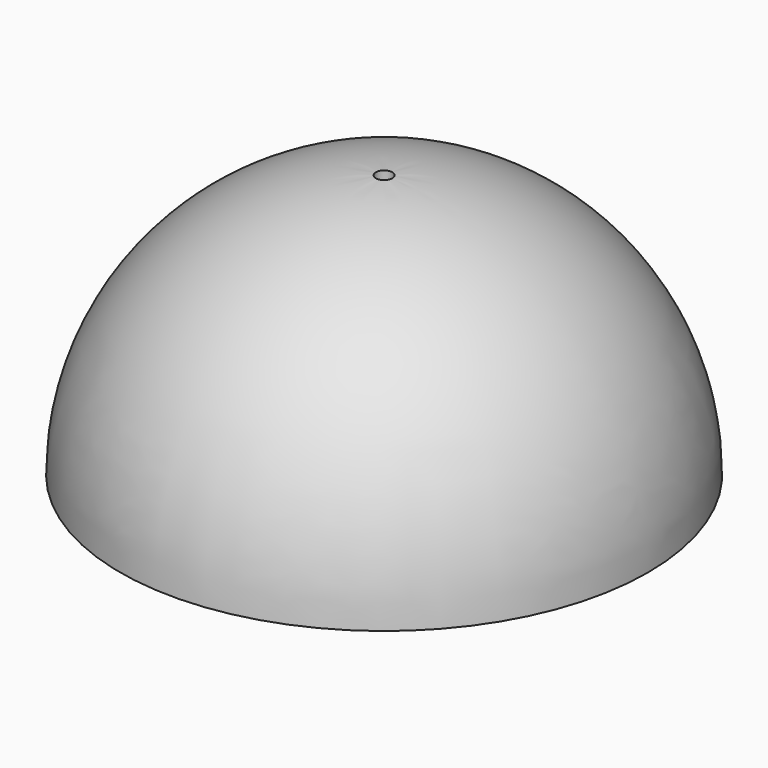
from build123d import *

# Parameters (mm, degrees)
F2_R     = 3.175
F3_DEPTH = 101.601


with BuildPart() as f1:
    # F0 (on Front) → F1 (revolve)
    with BuildSketch(Plane.XZ):
        with BuildLine():
            ThreePointArc((0, 98.2472), (69.471261, 69.471261), (98.2472, 0))
            Line((98.2472, 0), (101.6, 0))
            ThreePointArc((101.6, 0), (71.842049, 71.842049), (0, 101.6))
            Line((0, 101.6), (0, 98.2472))
        make_face()
    revolve(axis=Axis((0, 0, 50.8), (0, 0, -1)))

    # F2 (on Top) → F3 (cut, through all)
    with BuildSketch(Plane.XY):
        Circle(F2_R)
    extrude(amount=F3_DEPTH, mode=Mode.SUBTRACT)


solid = f1.part
